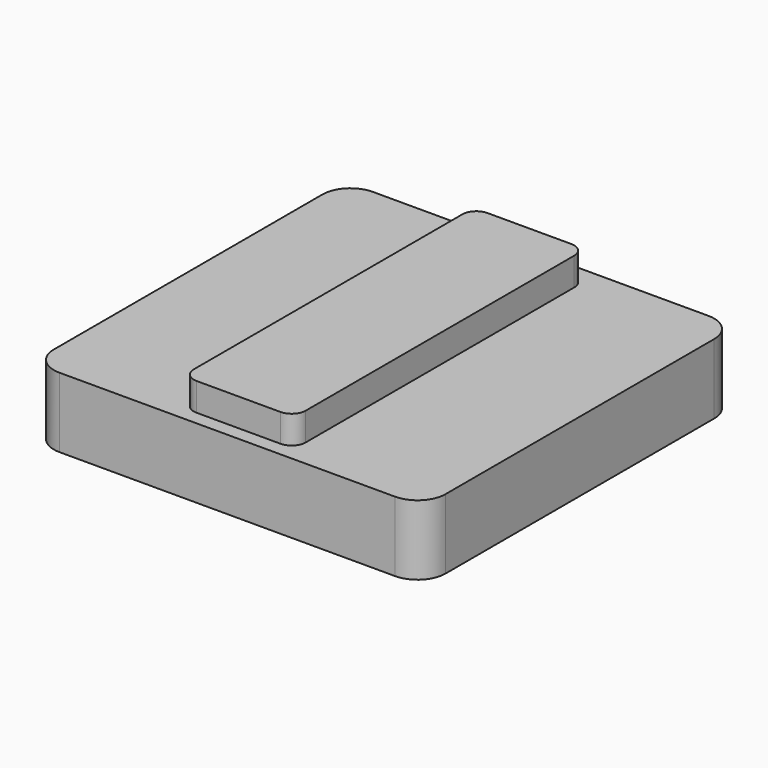
from build123d import *

# Parameters (mm, degrees)
F0_W     = 140
F0_H     = 140
F0_W_2   = 40
F0_H_2   = 130
F1_DEPTH = 25
F2_DEPTH = 35
F3_R     = 10
F4_R     = 5


with BuildPart() as f1:
    # F0 (on Top) → F1 (new body)
    with BuildSketch(Plane.XY):
        Rectangle(F0_W, F0_H)
        Rectangle(F0_W_2, F0_H_2, mode=Mode.SUBTRACT)
    extrude(amount=F1_DEPTH)

    # F0 (on Top) → F2 (join)
    with BuildSketch(Plane.XY):
        Rectangle(F0_W_2, F0_H_2)
    extrude(amount=F2_DEPTH)

    # F3
    f3_edges = [f1.edges().sort_by_distance(p)[0] for p in [
        (-70, 70, 12.5),
        (70, 70, 12.5),
        (70, -70, 12.5),
        (-70, -70, 12.5),
    ]]
    fillet(f3_edges, radius=F3_R)

    # F4
    f4_edges = [f1.edges().sort_by_distance(p)[0] for p in [
        (-20, -65, 30),
        (20, -65, 30),
        (20, 65, 30),
        (-20, 65, 30),
    ]]
    fillet(f4_edges, radius=F4_R)


solid = f1.part
